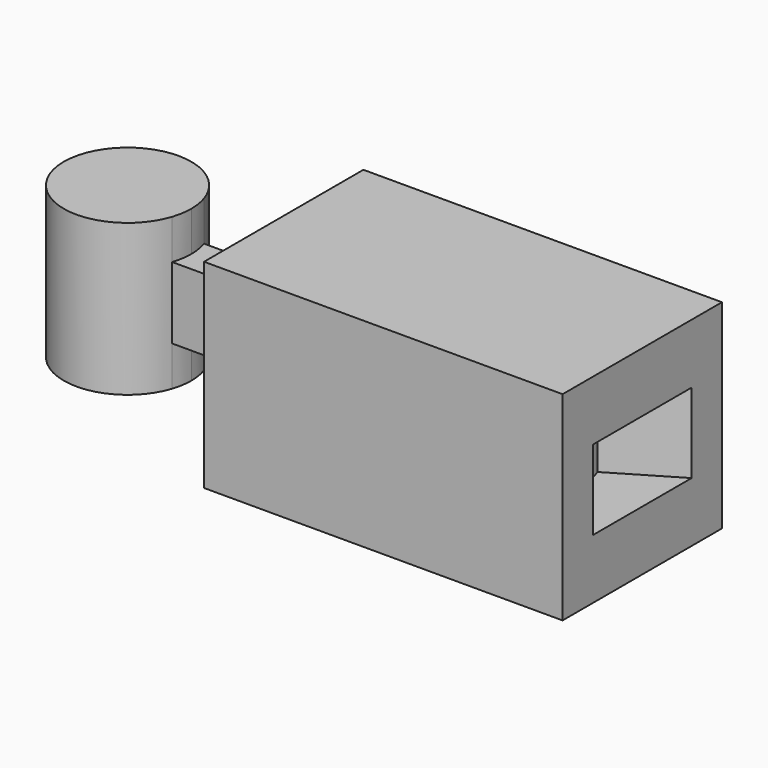
from build123d import *

# Parameters (mm, degrees)
F1_DEPTH = 12.5
F2_DEPTH = 10
F3_DEPTH = 4.5
F4_DEPTH = 9.5
F5_DEPTH = 5


with BuildPart() as f1:
    # F0 (on Top) → F1 (new body, symmetric)
    with BuildSketch(Plane.XY):
        with BuildLine():
            Line((22.5, 12.5), (-22.5, 12.5))
            Line((-22.5, 12.5), (-22.5, 2.5))
            Line((-22.5, 2.5), (-22.5, -2.5))
            Line((-22.5, -2.5), (-22.5, -12.5))
            Line((-22.5, -12.5), (22.5, -12.5))
            Line((22.5, -12.5), (22.5, -7.75))
            Line((22.5, -7.75), (14.5, -3))
            ThreePointArc((14.5, -3), (-1.952987, 0), (14.5, 3))
            Line((14.5, 3), (22.5, 7.75))
            Line((22.5, 7.75), (22.5, 12.5))
        make_face()
        with BuildLine():
            ThreePointArc((15.047013, 0), (14.909142, 1.524731), (14.5, 3))
            ThreePointArc((14.5, 3), (-1.952987, 0), (14.5, -3))
            ThreePointArc((14.5, -3), (14.909142, -1.524731), (15.047013, 0))
        make_face()
        Polygon((22.5, -7.75), (22.5, -3), (14.5, -3), align=None)
        with BuildLine():
            Line((22.5, -3), (22.5, 3))
            Line((22.5, 3), (14.5, 3))
            ThreePointArc((14.5, 3), (14.909142, 1.524731), (15.047013, 0))
            ThreePointArc((15.047013, 0), (14.909142, -1.524731), (14.5, -3))
            Line((14.5, -3), (22.5, -3))
        make_face()
        Polygon((22.5, 3), (22.5, 7.75), (14.5, 3), align=None)
    extrude(amount=F1_DEPTH, both=True)

    # F0 (on Top) → F2 (cut, symmetric)
    with BuildSketch(Plane.XY):
        with BuildLine():
            ThreePointArc((15.047013, 0), (14.909142, 1.524731), (14.5, 3))
            ThreePointArc((14.5, 3), (-1.952987, 0), (14.5, -3))
            ThreePointArc((14.5, -3), (14.909142, -1.524731), (15.047013, 0))
        make_face()
    extrude(amount=F2_DEPTH, both=True, mode=Mode.SUBTRACT)

    # F0 (on Top) → F3 (join, symmetric)
    with BuildSketch(Plane.XY):
        with BuildLine():
            Line((-22.5, -2.5), (-22.5, 2.5))
            Line((-22.5, 2.5), (-34.5, 2.5))
            ThreePointArc((-34.5, 2.5), (-34.200142, 1.265951), (-34.099342, 0))
            ThreePointArc((-34.099342, 0), (-34.200142, -1.265951), (-34.5, -2.5))
            Line((-34.5, -2.5), (-22.5, -2.5))
        make_face()
    extrude(amount=F3_DEPTH, both=True)

    # F0 (on Top) → F4 (join, symmetric)
    with BuildSketch(Plane.XY):
        with BuildLine():
            ThreePointArc((-34.099342, 0), (-34.200142, 1.265951), (-34.5, 2.5))
            ThreePointArc((-34.5, 2.5), (-50.099342, 0), (-34.5, -2.5))
            ThreePointArc((-34.5, -2.5), (-34.200142, -1.265951), (-34.099342, 0))
        make_face()
    extrude(amount=F4_DEPTH, both=True)

    # F0 (on Top) → F5 (cut, symmetric)
    with BuildSketch(Plane.XY):
        Polygon((22.5, 3), (22.5, 7.75), (14.5, 3), align=None)
        with BuildLine():
            Line((22.5, -3), (22.5, 3))
            Line((22.5, 3), (14.5, 3))
            ThreePointArc((14.5, 3), (14.909142, 1.524731), (15.047013, 0))
            ThreePointArc((15.047013, 0), (14.909142, -1.524731), (14.5, -3))
            Line((14.5, -3), (22.5, -3))
        make_face()
        Polygon((22.5, -7.75), (22.5, -3), (14.5, -3), align=None)
    extrude(amount=F5_DEPTH, both=True, mode=Mode.SUBTRACT)


solid = f1.part
